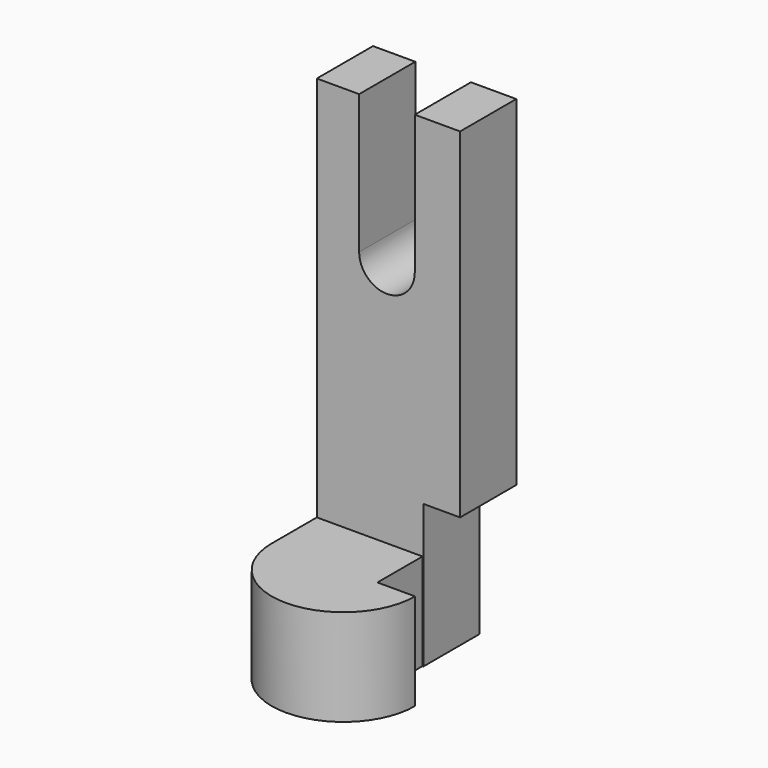
from build123d import *

# Parameters (mm, degrees)
F1_DEPTH = 25.4
F2_W     = 37.6737080514
F2_H     = 18.4638472274
F3_DEPTH = 101.6
F4_W     = 14.6301244386
F4_H     = 36.548535943
F5_DEPTH = 25.4
F6_DEPTH = 25.4
F7_W     = 18.4638472274
F7_H     = 37.6439765096
F8_DEPTH = 9.652


with BuildPart() as f1:
    # F0 (on Top) → F1 (new body)
    with BuildSketch(Plane.XY):
        with BuildLine():
            ThreePointArc((-18.8368540257, 0), (0, -18.8368540257), (18.8368540257, 0))
            Line((18.8368540257, 0), (8.9521668851, 0))
            Line((8.9521668851, 0), (-18.8368540257, 0))
        make_face()
        Polygon((-18.8368540257, 33.2889333367), (-18.8368540257, 0), (8.9521668851, 0), (8.9521668851, 14.8250861093), (18.8368540257, 14.8250861093), (18.8368540257, 33.2889333367), align=None)
    extrude(amount=F1_DEPTH)

    # F2 (on face) → F3 (join)
    with BuildSketch(Plane.XY.offset(25.4)):
        with Locations((0, 24.057009723)):
            Rectangle(F2_W, F2_H)
    extrude(amount=F3_DEPTH)

    # F4 (on face) → F5 (cut)
    with BuildSketch(Plane.XZ.offset(-14.8250861093)):
        with Locations((-0.3958076704, 108.7257320285)):
            Rectangle(F4_W, F4_H)
        with BuildLine():
            Line((6.9192545488, 90.451464057), (-7.7108698897, 90.451464057))
            ThreePointArc((-7.7108698897, 90.451464057), (-0.3958076704, 83.1364018377), (6.9192545488, 90.451464057))
        make_face()
    extrude(amount=-F5_DEPTH, mode=Mode.SUBTRACT)

    # F4 (on face) → F6 (cut)
    with BuildSketch(Plane.XZ.offset(-14.8250861093)):
        with Locations((-0.3958076704, 108.7257320285)):
            Rectangle(F4_W, F4_H)
        with BuildLine():
            Line((6.9192545488, 90.451464057), (-7.7108698897, 90.451464057))
            ThreePointArc((-7.7108698897, 90.451464057), (-0.3958076704, 83.1364018377), (6.9192545488, 90.451464057))
        make_face()
    extrude(amount=-F6_DEPTH, mode=Mode.SUBTRACT)

    # F7 (on face) → F8 (cut)
    with BuildSketch(Plane.YZ.offset(18.8368540257)):
        with Locations((24.057009723, 18.8219882548)):
            Rectangle(F7_W, F7_H)
    extrude(amount=-F8_DEPTH, mode=Mode.SUBTRACT)


solid = f1.part
